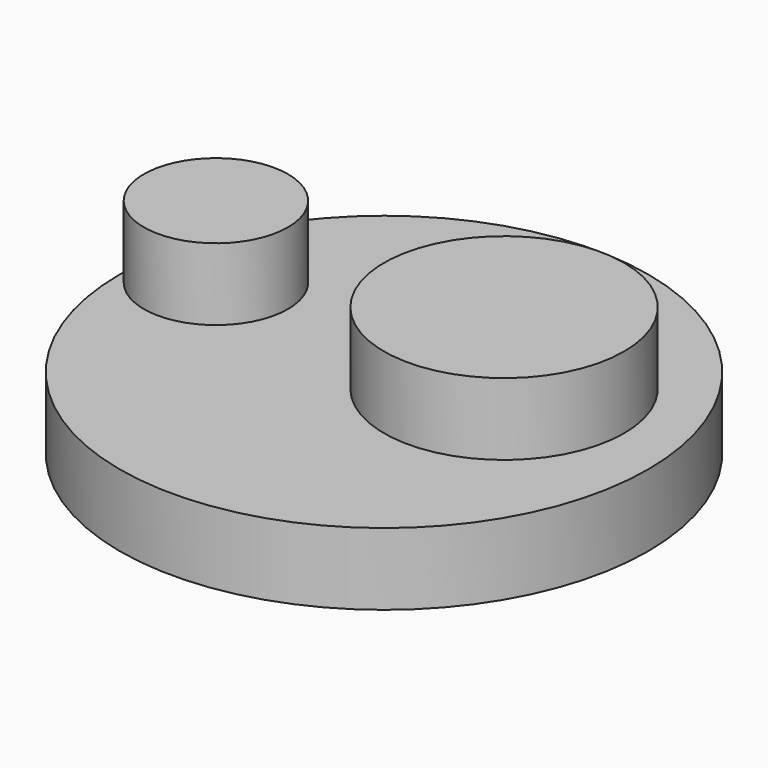
from build123d import *

# Parameters (mm, degrees)
CYLINDER_R        = 50
CYLINDER_DEPTH    = 30
CYLINDER001_R     = 30
CYLINDER001_DEPTH = 30
CYLINDER002_R     = 110
CYLINDER002_DEPTH = 30


with BuildPart() as cylinder:
    # Cylinder → Cylinder (new body)
    with BuildSketch(Plane(origin=(80, 0, 10), x_dir=(1, 0, 0), z_dir=(0, 0, 1))):
        Circle(CYLINDER_R)
    extrude(amount=CYLINDER_DEPTH)


with BuildPart() as cylinder001:
    # Cylinder001 → Cylinder001 (new body)
    with BuildSketch(Plane(origin=(-40, 0, 10), x_dir=(1, 0, 0), z_dir=(0, 0, 1))):
        Circle(CYLINDER001_R)
    extrude(amount=CYLINDER001_DEPTH)


with BuildPart() as cylinder002:
    # Cylinder002 → Cylinder002 (new body)
    with BuildSketch(Plane(origin=(30, 0, -30), x_dir=(1, 0, 0), z_dir=(0, 0, 1))):
        Circle(CYLINDER002_R)
    extrude(amount=CYLINDER002_DEPTH)


solid = Compound([cylinder.part, cylinder001.part, cylinder002.part])
